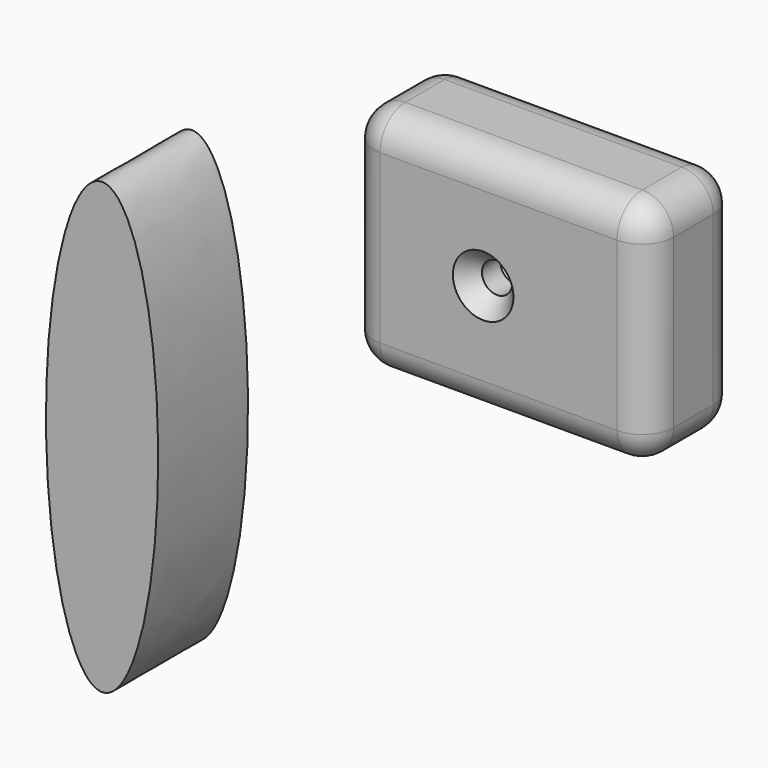
from build123d import *

# Parameters (mm, degrees)
F0_W           = 66.7574256659
F0_H           = 51.3147749007
F1_DEPTH       = 25
F2_R           = 7
F4_DEPTH       = 25
F6_D           = 6.7564
F6_DEPTH       = 9
F6_CSINK_D     = 13.4874
F6_CSINK_ANGLE = 82
F6_TIP         = 2.0298273432


with BuildPart() as f1:
    # F0 (on Front) → F1 (new body)
    with BuildSketch(Plane.XZ):
        with Locations((-59.4141110778, 38.9248616993)):
            Rectangle(F0_W, F0_H)
    extrude(amount=F1_DEPTH)

    # F2
    f2_edges = [f1.edges().sort_by_distance(p)[0] for p in [
        (-92.792824, -12.5, 13.267474),
        (-26.035398, -12.5, 13.267474),
        (-59.414111, 0, 13.267474),
        (-59.414111, -25, 13.267474),
        (-92.792824, 0, 38.924862),
        (-26.035398, 0, 38.924862),
        (-59.414111, 0, 64.582249),
        (-92.792824, -12.5, 64.582249),
        (-92.792824, -25, 38.924862),
        (-26.035398, -25, 38.924862),
        (-59.414111, -25, 64.582249),
        (-26.035398, -12.5, 64.582249),
    ]]
    fillet(f2_edges, radius=F2_R)

    # F6
    with Locations(Plane.XZ.offset(25)):
        with Locations((-62.8382563591, 38.9248616993)):
            CounterSinkHole(F6_D / 2, F6_CSINK_D / 2, depth=F6_DEPTH, counter_sink_angle=F6_CSINK_ANGLE)
            with Locations((0, 0, -(F6_DEPTH + F6_TIP / 2))):  # 118° drill point
                Cone(0, F6_D / 2, F6_TIP, mode=Mode.SUBTRACT)


with BuildPart() as f4:
    # F3 (on Front) → F4 (new body)
    with BuildSketch(Plane.XZ):
        with BuildLine():
            add(Edge.make_bspline(
                [(-147.6886868477, -68.2945430279), (-126.0380517531, -68.2945430279), (-136.8633693004, 6.7054569721), (-147.6886868477, 81.7054569721), (-158.514004395, 6.7054569721), (-169.3393219423, -68.2945430279), (-147.6886868477, -68.2945430279)],
                knots=[0, 0, 0, 2.0943951024, 2.0943951024, 4.1887902048, 4.1887902048, 6.2831853072, 6.2831853072, 6.2831853072], degree=2, weights=[1, 0.5, 1, 0.5, 1, 0.5, 1]))
        make_face()
    extrude(amount=F4_DEPTH)


solid = Compound([f1.part, f4.part])
